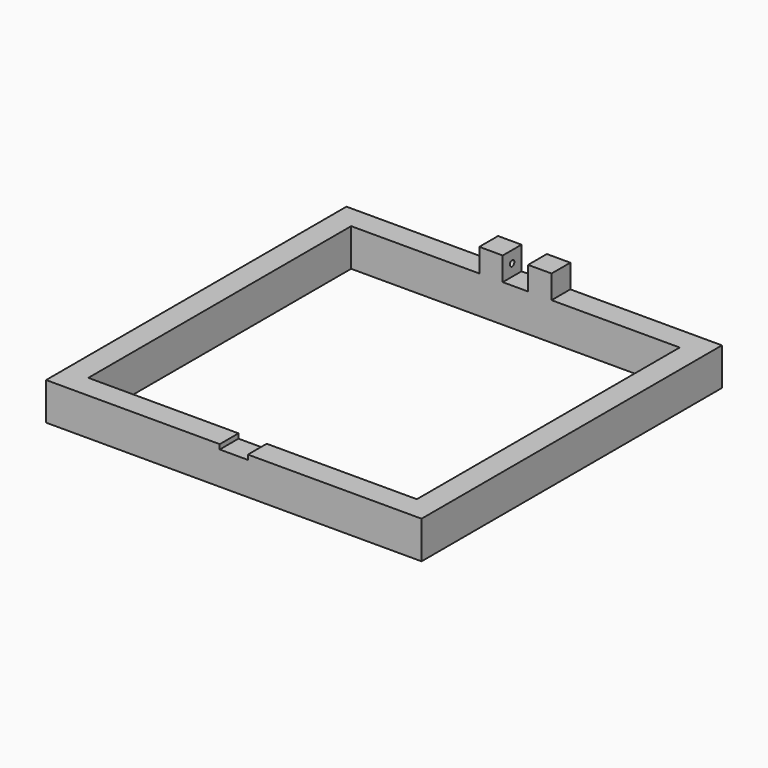
from build123d import *

# Parameters (mm, degrees)
F0_W     = 400
F0_H     = 400
F0_W_2   = 350
F0_H_2   = 350
F1_DEPTH = 40
F2_W     = 30
F2_H     = 5
F3_DEPTH = 25
F4_W     = 25
F4_H     = 25
F5_DEPTH = 25
F6_R     = 3
F7_DEPTH = 5
F8_R     = 3
F9_DEPTH = 25


with BuildPart() as f1:
    # F0 (on Top) → F1 (new body)
    with BuildSketch(Plane.XY):
        Rectangle(F0_W, F0_H)
        Rectangle(F0_W_2, F0_H_2, mode=Mode.SUBTRACT)
    extrude(amount=F1_DEPTH)

    # F2 (on face) → F3 (cut, through all)
    with BuildSketch(Plane.XZ.offset(200)):
        with Locations((0, 37.5)):
            Rectangle(F2_W, F2_H)
    extrude(amount=-F3_DEPTH, mode=Mode.SUBTRACT)

    # F4 (on face) → F5 (join)
    with BuildSketch(Plane.XY.offset(40)):
        with Locations((-26, 187.5)):
            Rectangle(F4_W, F4_H)
        with Locations((26, 187.5)):
            Rectangle(F4_W, F4_H)
    extrude(amount=F5_DEPTH)

    # F6 (on face) → F7 (cut)
    with BuildSketch(Plane(origin=(13.5, 0, 0), x_dir=(0, -1, 0), z_dir=(-1, 0, 0))):
        with Locations((-187.5, 52.5)):
            Circle(F6_R)
    extrude(amount=-F7_DEPTH, mode=Mode.SUBTRACT)

    # F8 (on face) → F9 (cut, through all)
    with BuildSketch(Plane.YZ.offset(-13.5)):
        with Locations((187.5, 52.5)):
            Circle(F8_R)
    extrude(amount=-F9_DEPTH, mode=Mode.SUBTRACT)


solid = f1.part
